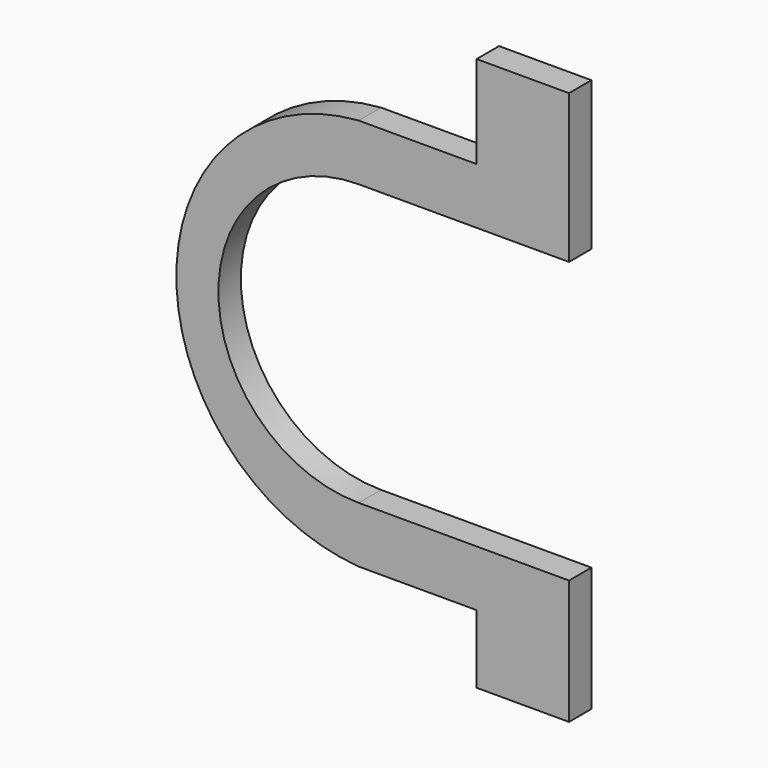
from build123d import *

# Parameters (mm, degrees)
F0_W     = 83.6888192892
F0_H     = 83.758920145
F0_H_2   = 61.9216111422
F1_DEPTH = 25.4


with BuildPart() as f1:
    # F0 (on Front) → F1 (new body)
    with BuildSketch(Plane.XZ):
        with BuildLine():
            Line((190.5, 127), (190.5, 177.8))
            Line((190.5, 177.8), (106.8111807108, 177.8))
            Line((106.8111807108, 177.8), (0, 177.8))
            ThreePointArc((0, 177.8), (-165.1, 0), (0, -177.8))
            Line((0, -177.8), (106.8111807108, -177.8))
            Line((106.8111807108, -177.8), (190.5, -177.8))
            Line((190.5, -177.8), (190.5, -127))
            Line((190.5, -127), (0, -127))
            ThreePointArc((0, -127), (-127, 0), (0, 127))
            Line((0, 127), (190.5, 127))
        make_face()
        with Locations((148.6555903554, 219.6794600725)):
            Rectangle(F0_W, F0_H)
        with Locations((148.6555903554, -208.7608055711)):
            Rectangle(F0_W, F0_H_2)
    extrude(amount=F1_DEPTH)


solid = f1.part
